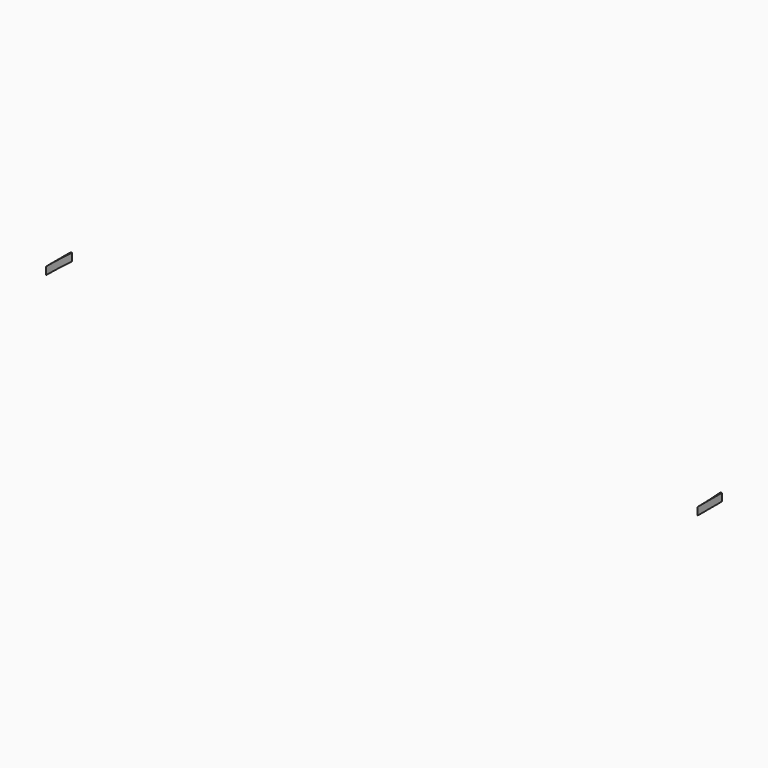
from build123d import *

# Parameters (mm, degrees)
F1_DEPTH = 12.7


with BuildPart() as f1:
    # F0 (on Top) → F1 (new body)
    with BuildSketch(Plane.XY):
        with BuildLine():
            Line((1270, 50.811859), (1267.600085, 50.811859))
            ThreePointArc((1267.600085, 50.811859), (1269.399407, 25.440174), (1270, 0.011859))
            Line((1270, 0.011859), (1270, 50.811859))
        make_face()
        with BuildLine():
            ThreePointArc((191.793393, 0), (192.393425, 25.428302), (194.192185, 50.8))
            Line((194.192185, 50.8), (191.793393, 50.8))
            Line((191.793393, 50.8), (191.793393, 0))
        make_face()
    extrude(amount=F1_DEPTH)


solid = f1.part
